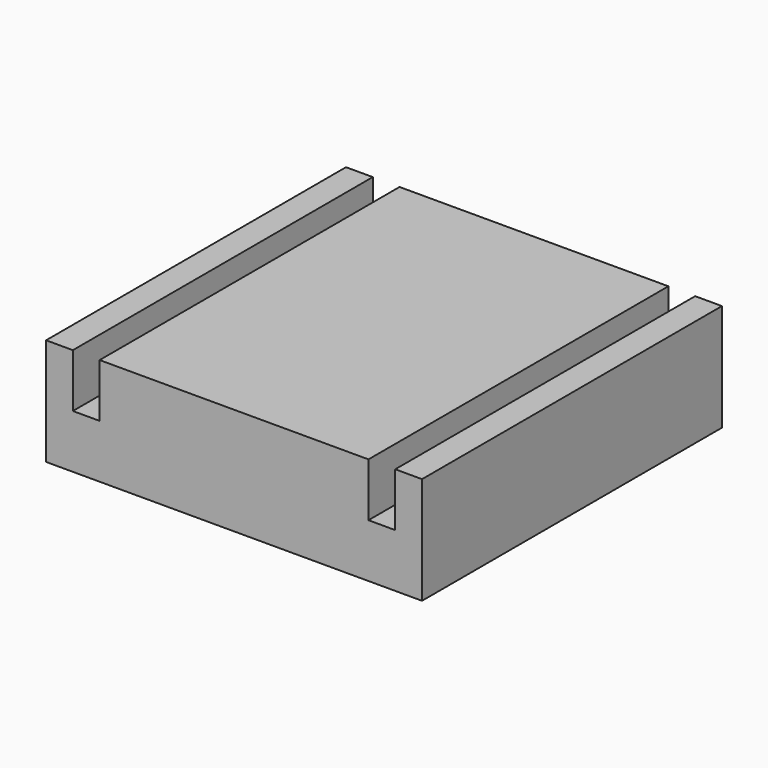
from build123d import *

# Parameters (mm, degrees)
F0_W     = 5
F0_H     = 70
F1_DEPTH = 20
F0_W_2   = 50.2
F0_W_3   = 2.5
F2_DEPTH = 10


with BuildPart() as f1:
    # F0 (on Top) → F1 (new body)
    with BuildSketch(Plane.XY):
        with Locations((-53.9031001925, 1.7255722731)):
            Rectangle(F0_W, F0_H)
    extrude(amount=F1_DEPTH)



with BuildPart() as f1b:
    # F0 (on Top) → F1, piece 2 (new body)
    with BuildSketch(Plane.XY):
        with Locations((-21.3031001925, 1.7255722731)):
            Rectangle(F0_W_2, F0_H)
    extrude(amount=F1_DEPTH)


with BuildPart() as f1c:
    # F0 (on Top) → F1, piece 3 (new body)
    with BuildSketch(Plane.XY):
        with Locations((11.2968998075, 1.7255722731)):
            Rectangle(F0_W, F0_H)
    extrude(amount=F1_DEPTH)


with BuildPart() as f1_1:
    add(f1.part)

    add(f1b.part)  # F2 merges F1b

    add(f1c.part)  # F2 merges F1c
    # F0 (on Top) → F2 (join)
    with BuildSketch(Plane.XY):
        with Locations((-47.6531001925, 1.7255722731)):
            Rectangle(F0_W_3, F0_H)
        with Locations((-50.1531001925, 1.7255722731)):
            Rectangle(F0_W_3, F0_H)
        with Locations((5.0468998075, 1.7255722731)):
            Rectangle(F0_W_3, F0_H)
        with Locations((7.5468998075, 1.7255722731)):
            Rectangle(F0_W_3, F0_H)
    extrude(amount=F2_DEPTH)


solid = f1_1.part
